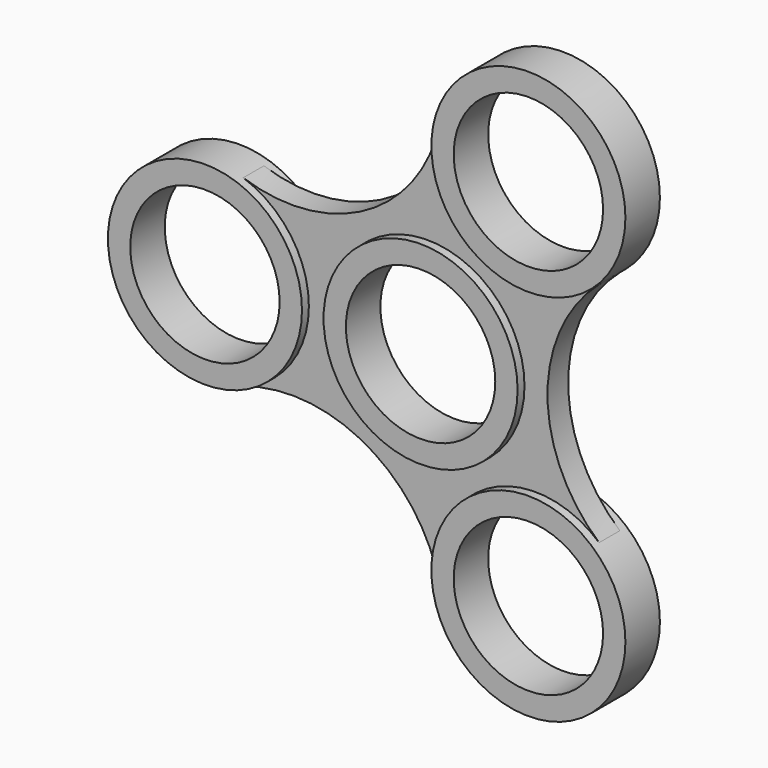
from build123d import *

# Parameters (mm, degrees)
F0_R     = 14.2875
F0_R_2   = 10.9982
F2_DEPTH = 6.35
F1_R     = 14.2875
F3_DEPTH = 1.27
F4_DEPTH = 1.27


with BuildPart() as f2:
    # F0 (on Front) → F2 (new body)
    with BuildSketch(Plane.XZ):
        with Locations((-31.75, 0)):
            Circle(F0_R)
        with Locations((-31.75, 0)):
            Circle(F0_R_2, mode=Mode.SUBTRACT)
    extrude(amount=F2_DEPTH)


with BuildPart() as f2b:
    # F0 (on Front) → F2, piece 2 (new body)
    with BuildSketch(Plane.XZ):
        with Locations((15.875, 27.4963065702)):
            Circle(F0_R)
        with Locations((15.875, 27.4963065702)):
            Circle(F0_R_2, mode=Mode.SUBTRACT)
    extrude(amount=F2_DEPTH)


with BuildPart() as f2c:
    # F0 (on Front) → F2, piece 3 (new body)
    with BuildSketch(Plane.XZ):
        with Locations((15.875, -27.4963065702)):
            Circle(F0_R)
        with Locations((15.875, -27.4963065702)):
            Circle(F0_R_2, mode=Mode.SUBTRACT)
    extrude(amount=F2_DEPTH)


with BuildPart() as f2d:
    # F0 (on Front) → F2, piece 4 (new body)
    with BuildSketch(Plane.XZ):
        Circle(F0_R)
        Circle(F0_R_2, mode=Mode.SUBTRACT)
    extrude(amount=F2_DEPTH)


with BuildPart() as f2e:
    # F1 (on Front) → F2, piece 5 (new body)
    with BuildSketch(Plane.XZ):
        with BuildLine():
            ThreePointArc((1.8568672225, 30.257576148), (-8.8366170981, 15.305469781), (-27.1322632123, 13.5206938879))
            ThreePointArc((-27.1322632123, 13.5206938879), (-20.1287141287, 8.3113399009), (-17.4625, 0))
            ThreePointArc((-17.4625, 0), (-20.1287141287, -8.3113399009), (-27.1322632123, -13.5206938879))
            ThreePointArc((-27.1322632123, -13.5206938879), (-8.8366170981, -15.305469781), (1.8568672225, -30.257576148))
            ThreePointArc((1.8568672225, -30.257576148), (8.73125, -15.1229686136), (25.2753959899, -16.7368822601))
            ThreePointArc((25.2753959899, -16.7368822601), (17.6732341963, 0), (25.2753959899, 16.7368822601))
            ThreePointArc((25.2753959899, 16.7368822601), (8.73125, 15.1229686136), (1.8568672225, 30.257576148))
        make_face()
        Circle(F1_R, mode=Mode.SUBTRACT)
    extrude(amount=F2_DEPTH)

    # F3 (cut): a face of the model
    f3_faces = [f2e.faces().sort_by_distance(p)[0] for p in [
        (16.8726939787, 0, 0),
    ]]
    extrude(f3_faces, amount=-F3_DEPTH, mode=Mode.SUBTRACT)

    # F4 (cut): a face of the model
    f4_faces = [f2e.faces().sort_by_distance(p)[0] for p in [
        (16.8726939787, -6.35, 0),
    ]]
    extrude(f4_faces, amount=-F4_DEPTH, mode=Mode.SUBTRACT)


solid = Compound([f2.part, f2b.part, f2c.part, f2d.part, f2e.part])
